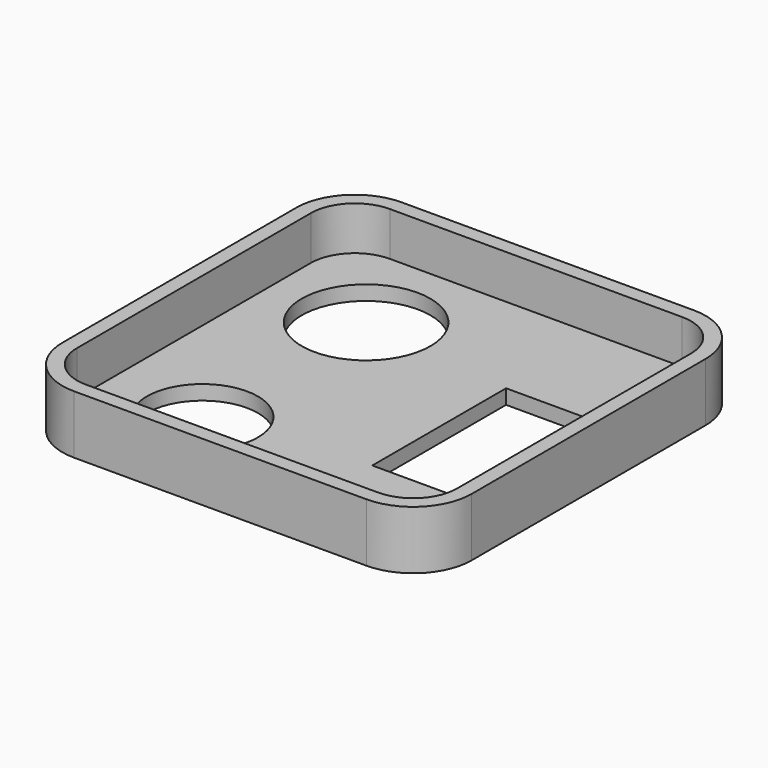
from build123d import *

# Parameters (mm, degrees)
F0_W     = 70
F0_H     = 70
F1_DEPTH = 10
F2_R     = 10
F3_T     = -2.5
F4_W     = 13
F4_H     = 28.6
F4_R     = 11
F4_R_2   = 9.5
F5_DEPTH = 25


with BuildPart() as f1:
    # F0 (on Top) → F1 (new body)
    with BuildSketch(Plane.XY):
        with Locations((0, 1.327967)):
            Rectangle(F0_W, F0_H)
    extrude(amount=F1_DEPTH)

    # F2
    f2_edges = [f1.edges().sort_by_distance(p)[0] for p in [
        (35, 36.327967, 5),
        (35, -33.672033, 5),
        (-35, 36.327967, 5),
        (-35, -33.672033, 5),
    ]]
    fillet(f2_edges, radius=F2_R)

    # F3
    f3_openings = [f1.faces().sort_by_distance(p)[0] for p in [
        (0, 1.327967, 10),
    ]]
    offset(amount=F3_T, openings=f3_openings)

    # F4 (on face) → F5 (cut)
    with BuildSketch(Plane(origin=(0, 0, 0), x_dir=(1, 0, 0), z_dir=(0, 0, -1))):
        with Locations((17, 0)):
            Rectangle(F4_W, F4_H)
        with Locations((-16, -17.5)):
            Circle(F4_R)
        with Locations((-16, 17.5)):
            Circle(F4_R_2)
    extrude(amount=-F5_DEPTH, mode=Mode.SUBTRACT)


solid = f1.part
